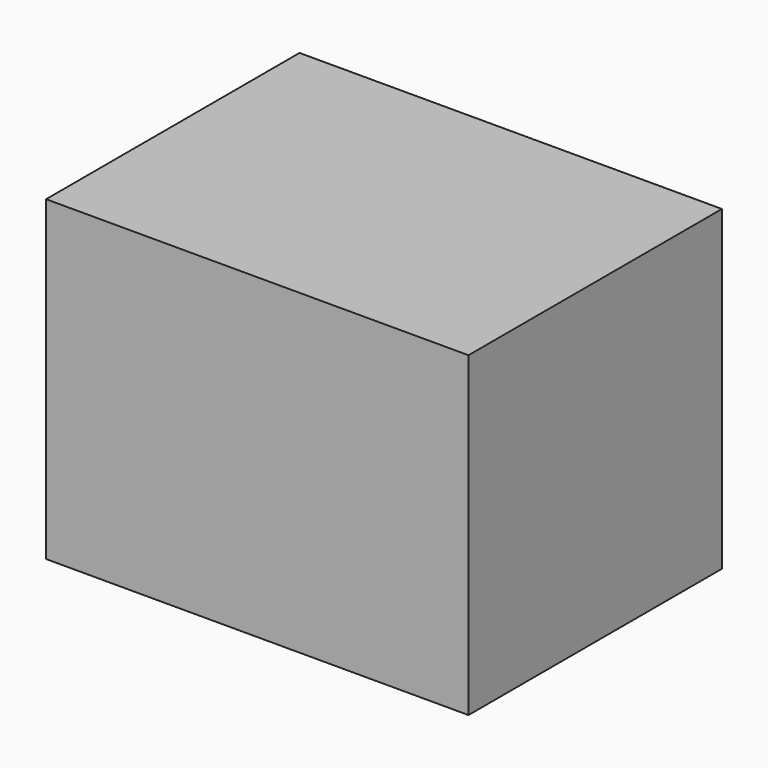
from build123d import *

# Parameters (mm, degrees)
F2_DEPTH = 450
F1_W     = 580
F1_H     = 430
F3_DEPTH = 440


with BuildPart() as f2:
    # F0 (on Front) → F2 (new body)
    with BuildSketch(Plane.XZ):
        Polygon((0, 10), (-300, 10), (-300, -440), (300, -440), (300, 10), align=None)
    extrude(amount=F2_DEPTH)

    # F1 (on Front) → F3 (cut)
    with BuildSketch(Plane.XZ):
        with Locations((0, -215)):
            Rectangle(F1_W, F1_H)
    extrude(amount=F3_DEPTH, mode=Mode.SUBTRACT)


solid = f2.part
